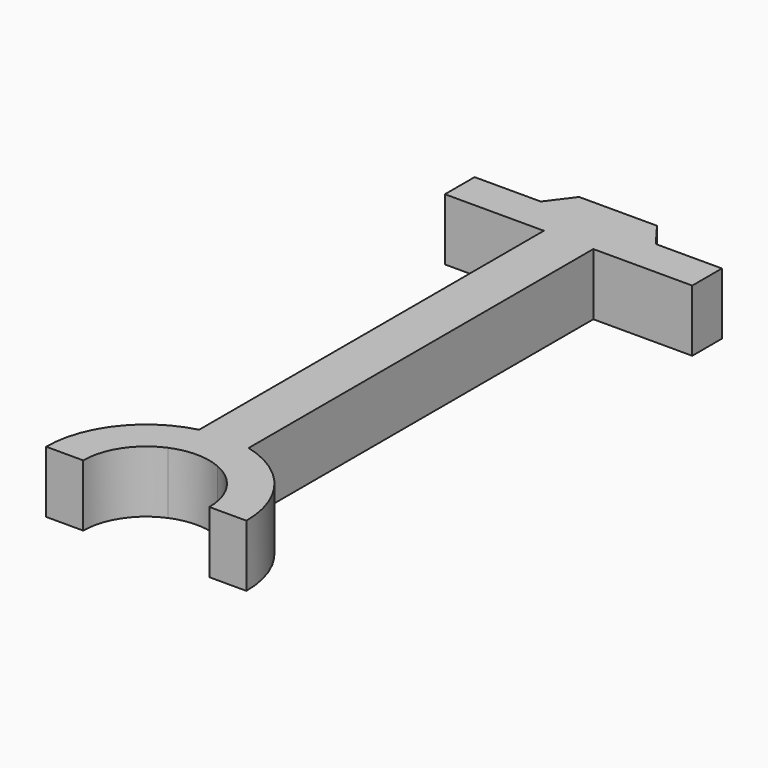
from build123d import *

# Parameters (mm, degrees)
F1_DEPTH = 5


with BuildPart() as f1:
    # F0 (on Top) → F1 (new body)
    with BuildSketch(Plane.XY):
        with BuildLine():
            ThreePointArc((2, 4.691482), (4.254997, 2.811583), (5.1, 0))
            Line((5.1, 0), (8.1, 0))
            ThreePointArc((8.1, 0), (6.395702, 4.970412), (2, 7.849204))
            Line((2, 7.849204), (2, 4.691482))
        make_face()
        with BuildLine():
            ThreePointArc((-2, 4.691482), (0, 5.1), (2, 4.691482))
            Line((2, 4.691482), (2, 7.849204))
            ThreePointArc((2, 7.849204), (0, 8.1), (-2, 7.849204))
            Line((-2, 7.849204), (-2, 4.691482))
        make_face()
        with BuildLine():
            ThreePointArc((-5.1, 0), (-4.254997, 2.811583), (-2, 4.691482))
            Line((-2, 4.691482), (-2, 7.849204))
            ThreePointArc((-2, 7.849204), (-6.395702, 4.970412), (-8.1, 0))
            Line((-8.1, 0), (-5.1, 0))
        make_face()
        with BuildLine():
            ThreePointArc((-2, 7.849204), (0, 8.1), (2, 7.849204))
            Line((2, 7.849204), (2, 42.691482))
            Line((2, 42.691482), (-2, 42.691482))
            Line((-2, 42.691482), (-2, 7.849204))
        make_face()
        Polygon((-2, 42.691482), (2, 42.691482), (10, 42.691482), (10, 45.691482), (4.65, 45.691482), (-4.65, 45.691482), (-10, 45.691482), (-10, 42.691482), align=None)
        Polygon((-4.65, 45.691482), (4.65, 45.691482), (3.15, 47.691482), (-3.15, 47.691482), align=None)
    extrude(amount=F1_DEPTH)


solid = f1.part
